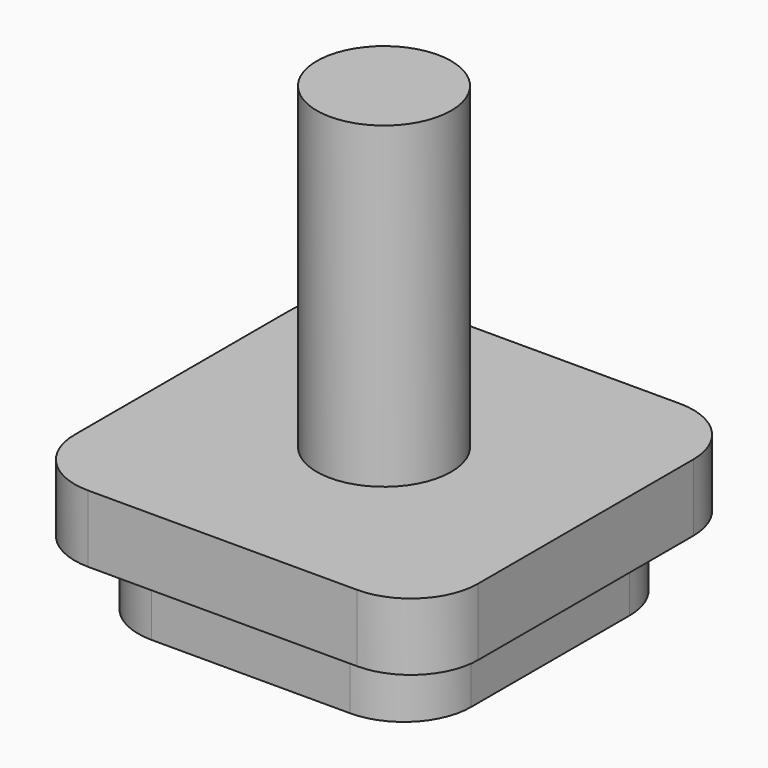
from build123d import *

# Parameters (mm, degrees)
F1_DEPTH = 2
F3_DEPTH = 2
F4_R     = 2
F5_DEPTH = 9.46


with BuildPart() as f1:
    # F0 (on Top) → F1 (new body)
    with BuildSketch(Plane.XY):
        with BuildLine():
            Line((-2.95, -4.95), (2.95, -4.95))
            ThreePointArc((2.95, -4.95), (4.364214, -4.364214), (4.95, -2.95))
            Line((4.95, -2.95), (4.95, 2.95))
            ThreePointArc((4.95, 2.95), (4.364214, 4.364214), (2.95, 4.95))
            Line((2.95, 4.95), (-2.95, 4.95))
            ThreePointArc((-2.95, 4.95), (-4.364214, 4.364214), (-4.95, 2.95))
            Line((-4.95, 2.95), (-4.95, -2.95))
            ThreePointArc((-4.95, -2.95), (-4.364214, -4.364214), (-2.95, -4.95))
        make_face()
    extrude(amount=F1_DEPTH)

    # F2 (on face) → F3 (join)
    with BuildSketch(Plane.XY.offset(2)):
        with BuildLine():
            Line((-4, -6), (4, -6))
            ThreePointArc((4, -6), (5.414214, -5.414214), (6, -4))
            Line((6, -4), (6, 4))
            ThreePointArc((6, 4), (5.414214, 5.414214), (4, 6))
            Line((4, 6), (-4, 6))
            ThreePointArc((-4, 6), (-5.414214, 5.414214), (-6, 4))
            Line((-6, 4), (-6, -4))
            ThreePointArc((-6, -4), (-5.414214, -5.414214), (-4, -6))
        make_face()
    extrude(amount=F3_DEPTH)

    # F4 (on face) → F5 (join)
    with BuildSketch(Plane.XY.offset(4)):
        Circle(F4_R)
    extrude(amount=F5_DEPTH)


solid = f1.part
